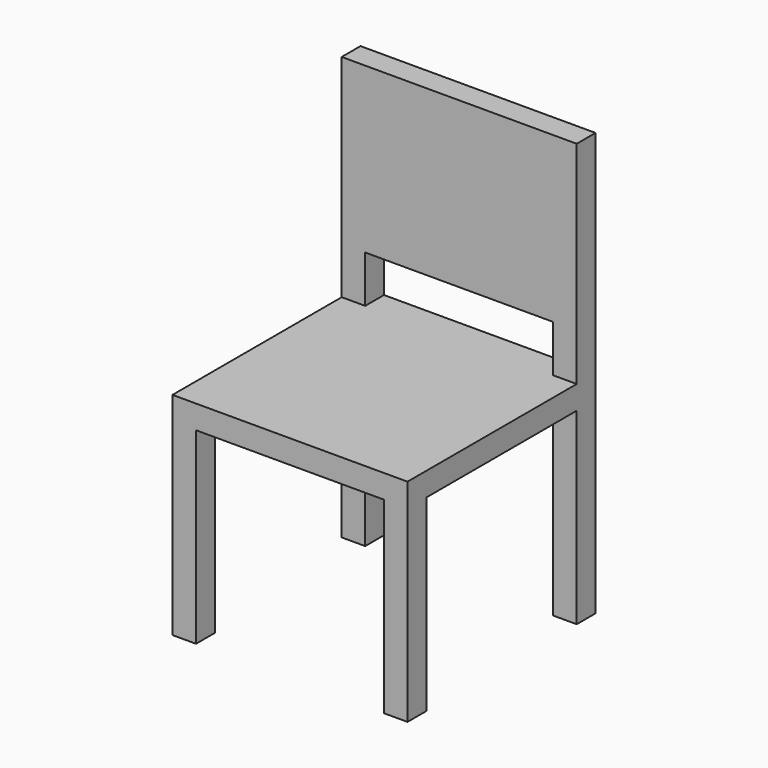
from build123d import *

# Parameters (mm, degrees)
F0_W     = 50
F0_H     = 50
F1_DEPTH = 400
F2_START = 400
F0_H_2   = 400
F0_W_2   = 400
F2_DEPTH = 50
F3_START = 450
F3_DEPTH = 100
F4_START = 550
F4_DEPTH = 350


with BuildPart() as f1:
    # F0 (on Top) → F1 (new body)
    with BuildSketch(Plane.XY):
        with Locations((225, 225)):
            Rectangle(F0_W, F0_H)
    extrude(amount=F1_DEPTH)



with BuildPart() as f1b:
    # F0 (on Top) → F1, piece 2 (new body)
    with BuildSketch(Plane.XY):
        with Locations((-225, 225)):
            Rectangle(F0_W, F0_H)
    extrude(amount=F1_DEPTH)


with BuildPart() as f1c:
    # F0 (on Top) → F1, piece 3 (new body)
    with BuildSketch(Plane.XY):
        with Locations((-225, -225)):
            Rectangle(F0_W, F0_H)
    extrude(amount=F1_DEPTH)


with BuildPart() as f1d:
    # F0 (on Top) → F1, piece 4 (new body)
    with BuildSketch(Plane.XY):
        with Locations((225, -225)):
            Rectangle(F0_W, F0_H)
    extrude(amount=F1_DEPTH)


with BuildPart() as f1_1:
    add(f1.part)

    add(f1b.part)  # F2 merges F1b

    add(f1c.part)  # F2 merges F1c

    add(f1d.part)  # F2 merges F1d
    # F0 (on Top) → F2 (join)
    with BuildSketch(Plane.XY.offset(F2_START)):
        with Locations((-225, 0)):
            Rectangle(F0_W, F0_H_2)
        Rectangle(F0_W_2, F0_H_2)
        with Locations((0, 225)):
            Rectangle(F0_W_2, F0_H)
        with Locations((225, 0)):
            Rectangle(F0_W, F0_H_2)
        with Locations((0, -225)):
            Rectangle(F0_W_2, F0_H)
        with Locations((-225, -225)):
            Rectangle(F0_W, F0_H)
        with Locations((-225, 225)):
            Rectangle(F0_W, F0_H)
        with Locations((225, 225)):
            Rectangle(F0_W, F0_H)
        with Locations((225, -225)):
            Rectangle(F0_W, F0_H)
    extrude(amount=F2_DEPTH)

    # F0 (on Top) → F3 (join)
    with BuildSketch(Plane.XY.offset(F3_START)):
        with Locations((225, 225)):
            Rectangle(F0_W, F0_H)
        with Locations((-225, 225)):
            Rectangle(F0_W, F0_H)
    extrude(amount=F3_DEPTH)

    # F0 (on Top) → F4 (join)
    with BuildSketch(Plane.XY.offset(F4_START)):
        with Locations((0, 225)):
            Rectangle(F0_W_2, F0_H)
        with Locations((225, 225)):
            Rectangle(F0_W, F0_H)
        with Locations((-225, 225)):
            Rectangle(F0_W, F0_H)
    extrude(amount=F4_DEPTH)


solid = f1_1.part
